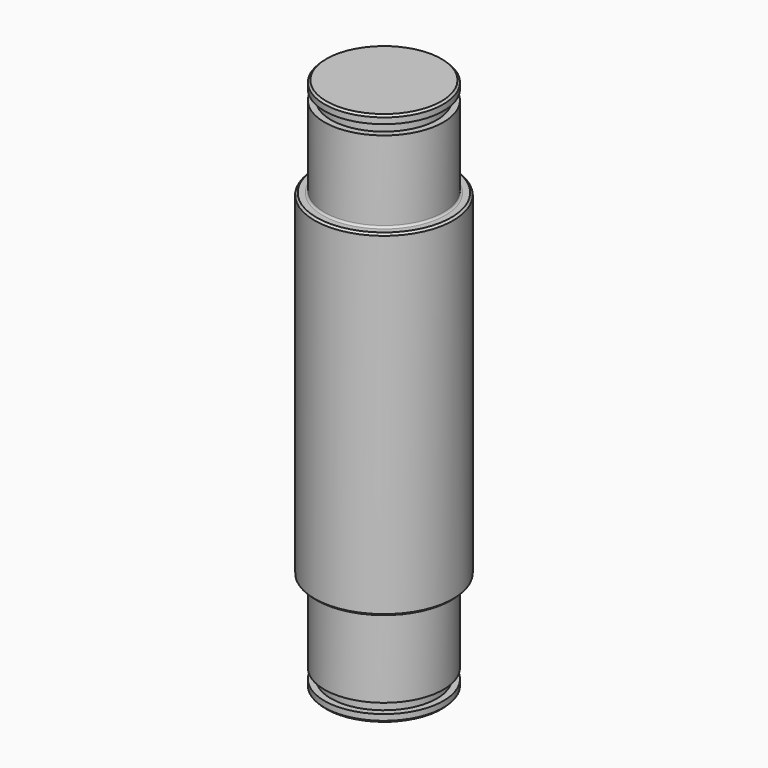
from build123d import *

# Parameters (mm, degrees)
F2_W    = 0.65
F2_H    = 1
F4_R    = 0.2
F5_SIZE = 0.2


with BuildPart() as f1:
    # F0 (on Front) → F1 (revolve)
    with BuildSketch(Plane.XZ):
        Polygon((0, -27), (0, 27), (-6, 27), (-6, 17), (-7, 17), (-7, -17), (-6, -17), (-6, -27), align=None)
    revolve(axis=Axis((0, 0, -1.756099), (0, 0, -1)))

    # F2 (on Front) → F3 (revolve, cut)
    with BuildSketch(Plane.XZ):
        with Locations((-5.675, 25.7)):
            Rectangle(F2_W, F2_H)
        with Locations((-5.675, -25.7)):
            Rectangle(F2_W, F2_H)
    revolve(axis=Axis((0, 0, 0.721304), (0, 0, -1)), mode=Mode.SUBTRACT)

    # F4
    f4_edges = [f1.edges().sort_by_distance(p)[0] for p in [
        (6, 0, 17),
        (6, 0, -17),
    ]]
    fillet(f4_edges, radius=F4_R)

    # F5
    f5_edges = [f1.edges().sort_by_distance(p)[0] for p in [
        (7, 0, -17),
        (7, 0, 17),
        (6, 0, 27),
        (6, 0, -27),
    ]]
    chamfer(f5_edges, length=F5_SIZE)


solid = f1.part
